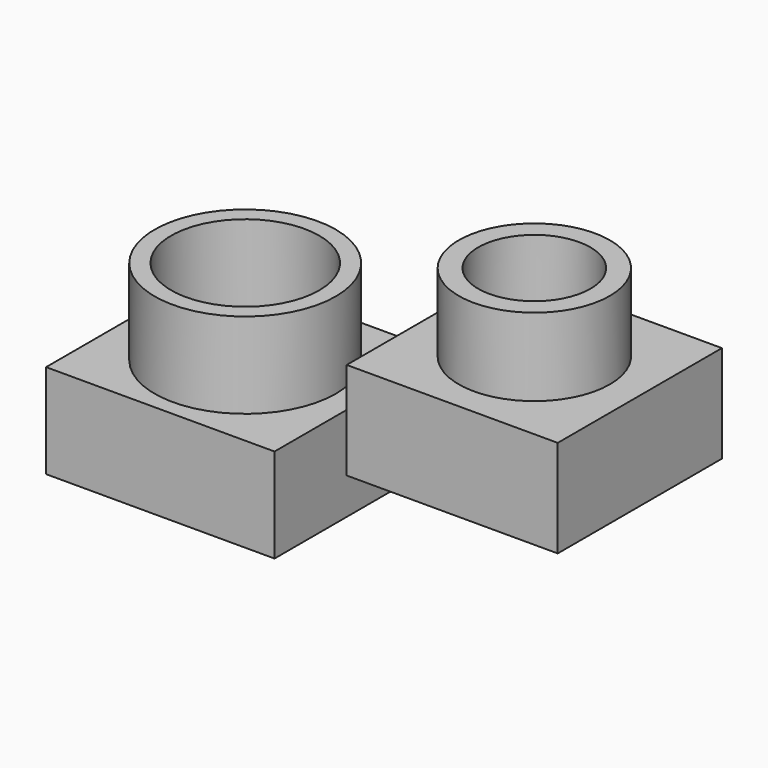
from build123d import *

# Parameters (mm, degrees)
F0_W      = 68.8170492649
F0_H      = 66.9333636761
F1_DEPTH  = 31.75
F2_R      = 18.3041335775
F3_DEPTH  = 140.462
F4_R      = 24.6288447619
F4_R_2    = 18.3041335775
F5_DEPTH  = 25.4
F6_W      = 74.5030492544
F6_H      = 69.2284926772
F6_R      = 24.1462933533
F7_DEPTH  = 30.734
F9_R      = 29.5354101633
F9_R_2    = 24.1462933533
F10_DEPTH = 27.94


with BuildPart() as f1:
    # F0 (on Top) → F1 (new body)
    with BuildSketch(Plane.XY):
        Rectangle(F0_W, F0_H)
    extrude(amount=F1_DEPTH)

    # F2 (on face) → F3 (cut)
    with BuildSketch(Plane.XY.offset(31.75)):
        Circle(F2_R)
    extrude(amount=-F3_DEPTH, mode=Mode.SUBTRACT)

    # F4 (on face) → F5 (join)
    with BuildSketch(Plane.XY.offset(31.75)):
        Circle(F4_R)
        Circle(F4_R_2, mode=Mode.SUBTRACT)
    extrude(amount=F5_DEPTH)


with BuildPart() as f7:
    # F6 (on Top) → F7 (new body)
    with BuildSketch(Plane.XY):
        with Locations((-94.2826196551, 0)):
            Rectangle(F6_W, F6_H)
        with Locations((-94.2826196551, 0)):
            Circle(F6_R, mode=Mode.SUBTRACT)
    extrude(amount=-F7_DEPTH)

    # F9 (on face) → F10 (join, symmetric)
    with BuildSketch(Plane.XY):
        with Locations((-94.2826196551, 0)):
            Circle(F9_R)
        with Locations((-94.2826196551, 0)):
            Circle(F9_R_2, mode=Mode.SUBTRACT)
    extrude(amount=F10_DEPTH, both=True)


solid = Compound([f1.part, f7.part])
